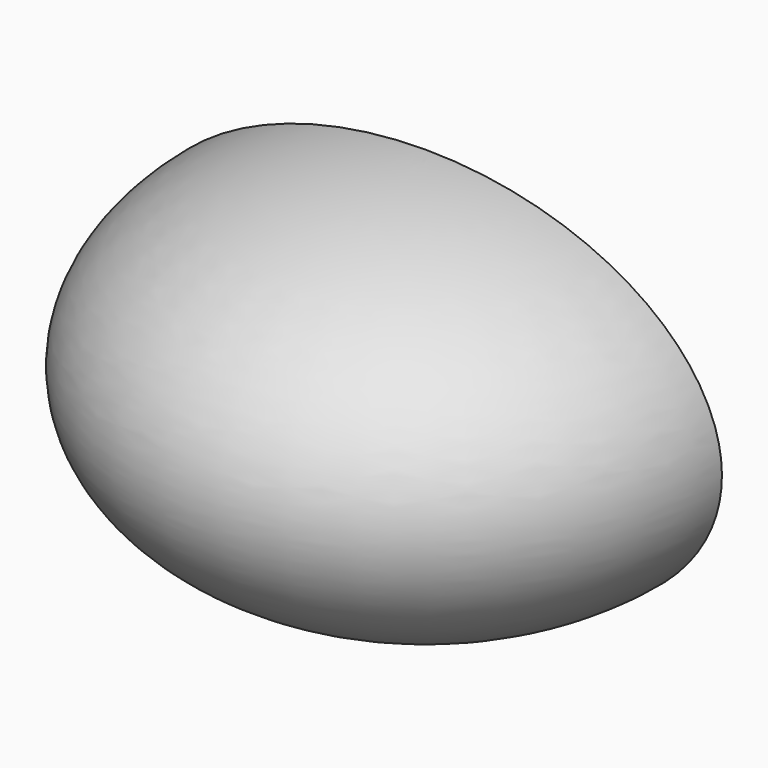
from build123d import *

# Parameters (mm, degrees)
F1_ANGLE = 180


with BuildPart() as f1:
    # F0 (on Front) → F1 (revolve)
    with BuildSketch(Plane.XZ):
        with BuildLine():
            Line((0, -225), (0, 225))
            add(Edge.make_bspline(
                [(0, 225), (-350, 225), (-350, 0), (-350, -225), (0, -225)],
                knots=[4.7123889804, 4.7123889804, 4.7123889804, 6.2831853072, 6.2831853072, 7.853981634, 7.853981634, 7.853981634], degree=2, weights=[1, 0.7071067812, 1, 0.7071067812, 1]))
        make_face()
    revolve(axis=Axis((0, 0, 0), (0, 0, 1)), revolution_arc=F1_ANGLE)


solid = f1.part
